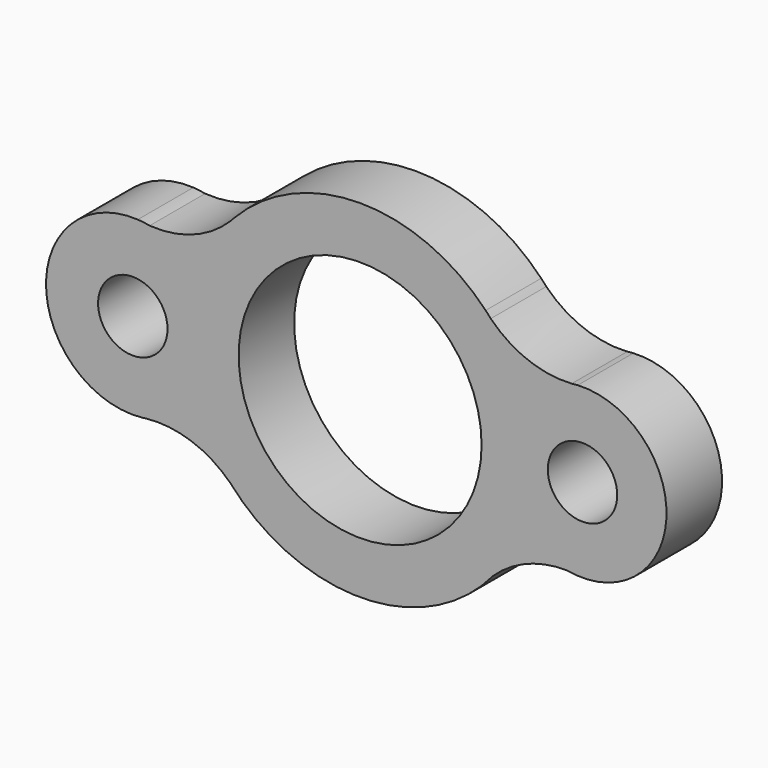
from build123d import *

# Parameters (mm, degrees)
F0_R     = 12.7
F0_R_2   = 44.45
F1_DEPTH = 25.4


with BuildPart() as f1:
    # F0 (on Front) → F1 (new body)
    with BuildSketch(Plane.XZ):
        with BuildLine():
            ThreePointArc((-78.322921, -31.378096), (-61.741608, -33.273322), (-47.561115, -42.07363))
            ThreePointArc((-47.561115, -42.07363), (0.884923, -63.493834), (48.715187, -40.731813))
            ThreePointArc((48.715187, -40.731813), (61.225405, -32.799779), (75.815182, -30.23831))
            ThreePointArc((75.815182, -30.23831), (112.047103, -1.913109), (79.61425, 30.693318))
            ThreePointArc((79.61425, 30.693318), (78.511328, 30.574208), (77.405407, 30.487258))
            ThreePointArc((77.405407, 30.487258), (61.368574, 32.920927), (47.797419, 41.804985))
            ThreePointArc((47.797419, 41.804985), (46.84664, 42.808286), (45.932881, 43.845416))
            ThreePointArc((45.932881, 43.845416), (0.021282, 63.499996), (-45.903481, 43.876194))
            ThreePointArc((-45.903481, 43.876194), (-46.498842, 43.220557), (-47.109281, 42.578934))
            ThreePointArc((-47.109281, 42.578934), (-60.807213, 33.568892), (-77.023302, 31.149665))
            ThreePointArc((-77.023302, 31.149665), (-79.194575, 31.361818), (-81.350145, 31.6979))
            ThreePointArc((-81.350145, 31.6979), (-114.910072, -0.722366), (-79.91004, -31.582373))
            ThreePointArc((-79.91004, -31.582373), (-79.117553, -31.471901), (-78.322921, -31.378096))
        make_face()
        with Locations((-83.168291, 0)):
            Circle(F0_R, mode=Mode.SUBTRACT)
        Circle(F0_R_2, mode=Mode.SUBTRACT)
        with Locations((81.363559, 0)):
            Circle(F0_R, mode=Mode.SUBTRACT)
        with BuildLine():
            ThreePointArc((-79.91004, -31.582373), (-79.115193, -31.490235), (-78.322921, -31.378096))
            ThreePointArc((-78.322921, -31.378096), (-79.117553, -31.471901), (-79.91004, -31.582373))
        make_face()
        with BuildLine():
            ThreePointArc((77.405407, 30.487258), (78.511328, 30.574208), (79.61425, 30.693318))
            ThreePointArc((79.61425, 30.693318), (78.507969, 30.610219), (77.405407, 30.487258))
        make_face()
        with BuildLine():
            ThreePointArc((-77.023302, 31.149665), (-79.177299, 31.498166), (-81.350145, 31.6979))
            ThreePointArc((-81.350145, 31.6979), (-79.194575, 31.361818), (-77.023302, 31.149665))
        make_face()
        with BuildLine():
            ThreePointArc((45.932881, 43.845416), (46.84664, 42.808286), (47.797419, 41.804985))
            ThreePointArc((47.797419, 41.804985), (46.876253, 42.835346), (45.932881, 43.845416))
        make_face()
        with BuildLine():
            ThreePointArc((-45.903481, 43.876194), (-46.510904, 43.231768), (-47.109281, 42.578934))
            ThreePointArc((-47.109281, 42.578934), (-46.498842, 43.220557), (-45.903481, 43.876194))
        make_face()
    extrude(amount=F1_DEPTH)


solid = f1.part
